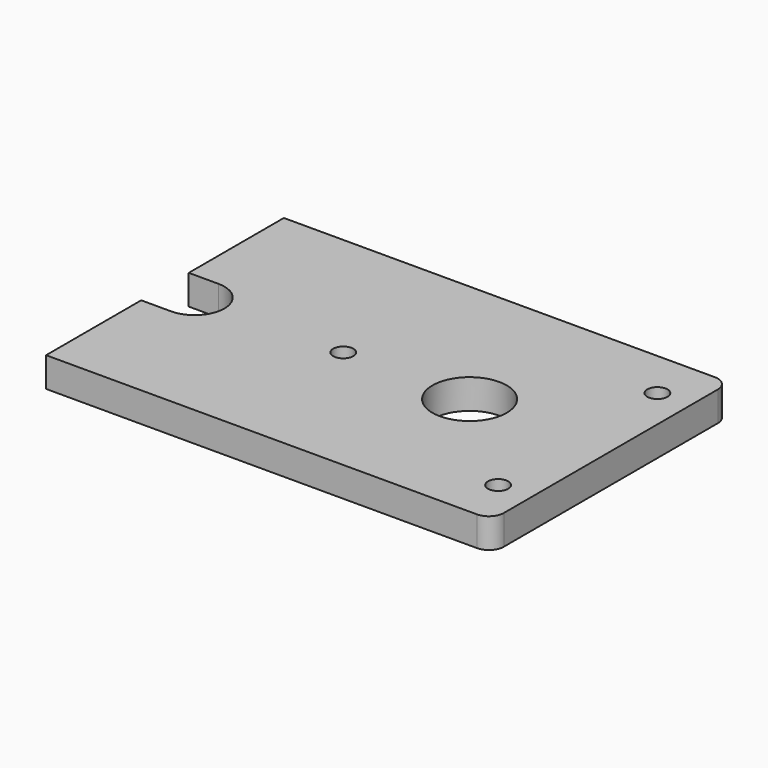
from build123d import *

# Parameters (mm, degrees)
F0_R     = 3.4
F0_R_2   = 12.5
F1_DEPTH = 10


with BuildPart() as f1:
    # F0 (on Top) → F1 (new body)
    with BuildSketch(Plane.XY):
        with BuildLine():
            ThreePointArc((75, 45), (73.535534, 48.535534), (70, 50))
            Line((70, 50), (-75, 50))
            Line((-75, 50), (-75, 10))
            Line((-75, 10), (-65, 10))
            ThreePointArc((-65, 10), (-55, 0), (-65, -10))
            Line((-65, -10), (-75, -10))
            Line((-75, -10), (-75, -50))
            Line((-75, -50), (70, -50))
            ThreePointArc((70, -50), (73.535534, -48.535534), (75, -45))
            Line((75, -45), (75, 45))
        make_face()
        with Locations((63.891, -33.5)):
            Circle(F0_R, mode=Mode.SUBTRACT)
        with Locations((-15, 0)):
            Circle(F0_R, mode=Mode.SUBTRACT)
        with Locations((27.5, 0)):
            Circle(F0_R_2, mode=Mode.SUBTRACT)
        with Locations((63.891, 33.5)):
            Circle(F0_R, mode=Mode.SUBTRACT)
    extrude(amount=F1_DEPTH)


solid = f1.part
